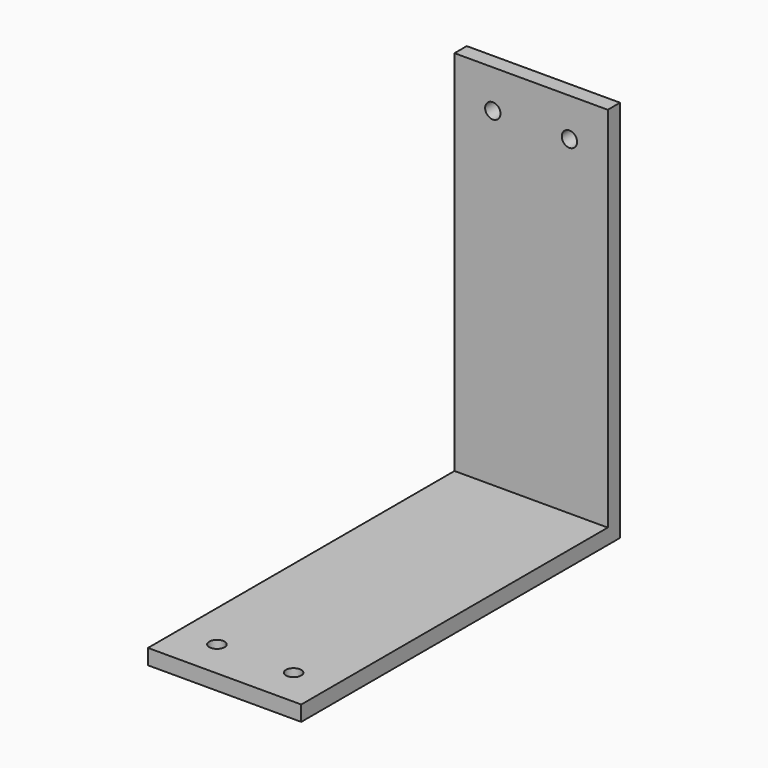
from build123d import *

# Parameters (mm, degrees)
F0_W     = 20
F0_H     = 50
F1_DEPTH = 2
F2_W     = 20
F2_H     = 2
F3_DEPTH = 50
F4_R     = 1
F5_DEPTH = 2
F6_R     = 1
F7_DEPTH = 2
F8_R     = 1
F9_DEPTH = 2


with BuildPart() as f1:
    # F0 (on Front) → F1 (new body)
    with BuildSketch(Plane.XZ):
        with Locations((-13.128957, -1.955133)):
            Rectangle(F0_W, F0_H)
    extrude(amount=F1_DEPTH)

    # F2 (on face) → F3 (join)
    with BuildSketch(Plane.XZ.offset(2)):
        with Locations((-13.128957, -25.955133)):
            Rectangle(F2_W, F2_H)
    extrude(amount=F3_DEPTH)

    # F4 (on face) → F5 (cut)
    with BuildSketch(Plane.XZ.offset(2)):
        with Locations((-18.128957, 18.044867)):
            Circle(F4_R)
    extrude(amount=-F5_DEPTH, mode=Mode.SUBTRACT)

    # F6 (on face) → F7 (cut)
    with BuildSketch(Plane.XZ.offset(2)):
        with Locations((-8.128957, 18.044867)):
            Circle(F6_R)
    extrude(amount=-F7_DEPTH, mode=Mode.SUBTRACT)

    # F8 (on face) → F9 (cut)
    with BuildSketch(Plane.XY.offset(-24.955133)):
        with Locations((-8.128957, -47)):
            Circle(F8_R)
        with Locations((-18.128957, -47)):
            Circle(F8_R)
    extrude(amount=-F9_DEPTH, mode=Mode.SUBTRACT)


with BuildPart() as f10_1:
    # F10: copy of F1
    add(f1.part)


solid = Compound([f1.part, f10_1.part])
